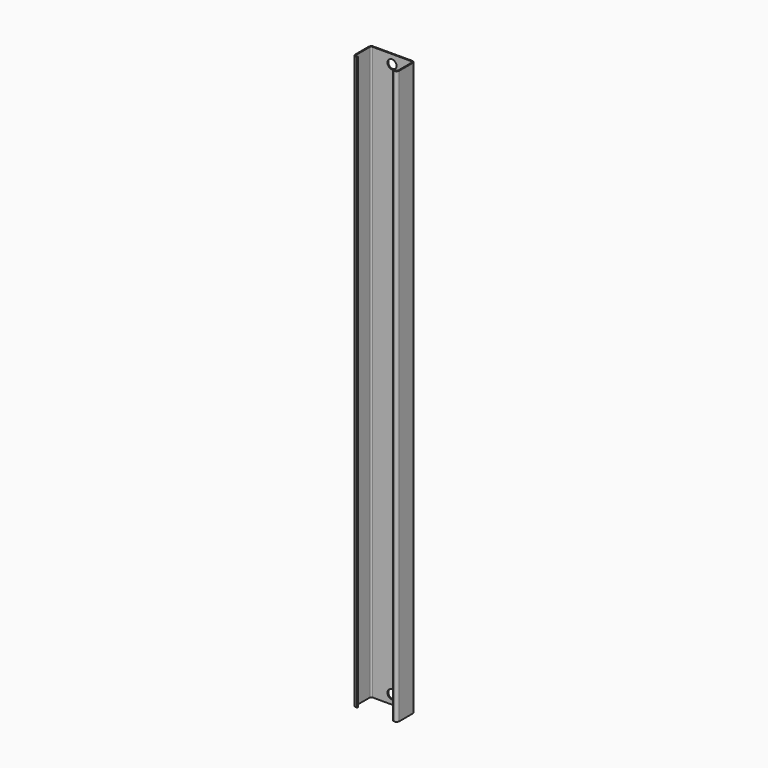
from build123d import *

# Parameters (mm, degrees)
PAD001_DEPTH    = 572
SKETCH004_R     = 4.5
POCKET002_DEPTH = 5
SKETCH007_W     = 36
SKETCH007_H     = 572
POCKET004_DEPTH = 5


with BuildPart() as part:
    # Sketch003 → Pad001 (new body)
    with BuildSketch(Plane.XY):
        with BuildLine():
            Line((-19.5, 11), (19.5, 11))
            ThreePointArc((22, 8.5), (21.267767, 10.267767), (19.5, 11))
            Line((22, 8.5), (22, -8.5))
            ThreePointArc((19.5, -11), (21.267767, -10.267767), (22, -8.5))
            Line((19.5, -11), (-19.5, -11))
            ThreePointArc((-22, -8.5), (-21.267767, -10.267767), (-19.5, -11))
            Line((-22, -8.5), (-22, 8.5))
            ThreePointArc((-19.5, 11), (-21.267767, 10.267767), (-22, 8.5))
        make_face()
        with BuildLine():
            Line((-19.5, 10), (19.5, 10))
            ThreePointArc((21, 8.5), (20.56066, 9.56066), (19.5, 10))
            Line((21, 8.5), (21, -8.5))
            ThreePointArc((19.5, -10), (20.56066, -9.56066), (21, -8.5))
            Line((19.5, -10), (-19.5, -10))
            ThreePointArc((-21, -8.5), (-20.56066, -9.56066), (-19.5, -10))
            Line((-21, -8.5), (-21, 8.5))
            ThreePointArc((-19.5, 10), (-20.56066, 9.56066), (-21, 8.5))
        make_face(mode=Mode.SUBTRACT)
    extrude(amount=PAD001_DEPTH)

    # Sketch004 (on Face3 of Pad001) → Pocket002 (cut)
    with BuildSketch(Plane(origin=(0, 11, 0), x_dir=(-1, 0, 0), z_dir=(0, 1, 0))):
        with Locations((0, 9)):
            Circle(SKETCH004_R)
        with Locations((0, 563)):
            Circle(SKETCH004_R)
    extrude(amount=-POCKET002_DEPTH, mode=Mode.SUBTRACT)

    # Sketch007 (on Face6 of Pocket002) → Pocket004 (cut)
    with BuildSketch(Plane.XZ.offset(11)):
        with Locations((0, 286)):
            Rectangle(SKETCH007_W, SKETCH007_H)
    extrude(amount=-POCKET004_DEPTH, mode=Mode.SUBTRACT)


solid = part.part
